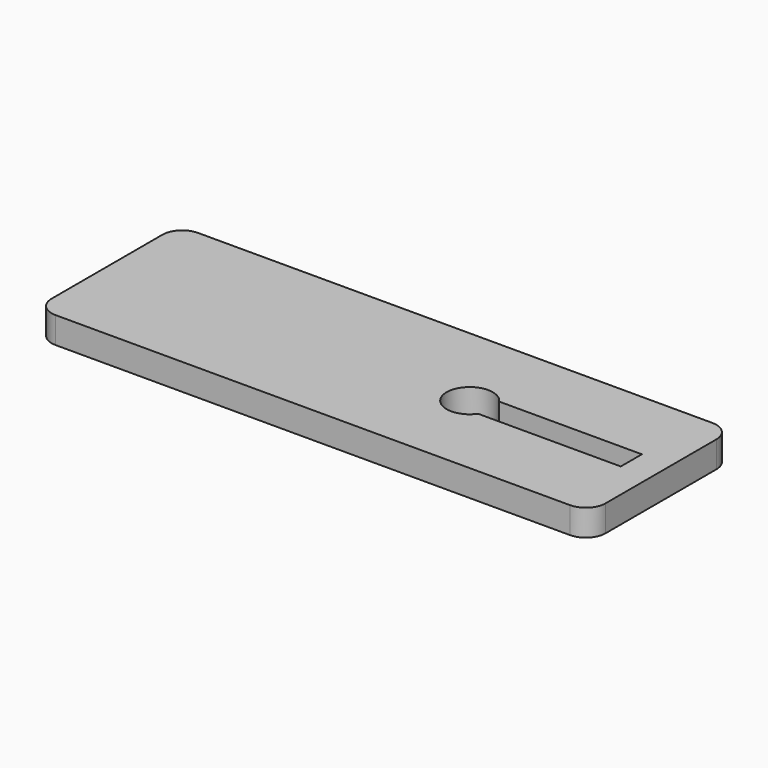
from build123d import *

# Parameters (mm, degrees)
F0_W     = 1066.8
F0_H     = 342.9
F1_DEPTH = 50.8
F2_R     = 38.1
F4_DEPTH = 50.8


with BuildPart() as f1:
    # F0 (on Top) → F1 (new body)
    with BuildSketch(Plane.XY):
        Rectangle(F0_W, F0_H)
    extrude(amount=F1_DEPTH)

    # F2
    f2_edges = [f1.edges().sort_by_distance(p)[0] for p in [
        (-533.4, 171.45, 25.4),
        (-533.4, -171.45, 25.4),
        (533.4, 171.45, 25.4),
        (533.4, -171.45, 25.4),
    ]]
    fillet(f2_edges, radius=F2_R)

    # F3 (on face) → F4 (cut)
    with BuildSketch(Plane.XY.offset(50.8)):
        with BuildLine():
            ThreePointArc((201.577973, -25.4), (207.51019, -13.310834), (209.55, 0))
            ThreePointArc((209.55, 0), (207.51019, 13.310834), (201.577973, 25.4))
            ThreePointArc((201.577973, 25.4), (120.65, 0), (201.577973, -25.4))
        make_face()
        with BuildLine():
            ThreePointArc((201.577973, 25.4), (207.51019, 13.310834), (209.55, 0))
            ThreePointArc((209.55, 0), (207.51019, -13.310834), (201.577973, -25.4))
            Line((201.577973, -25.4), (476.25, -25.4))
            Line((476.25, -25.4), (476.25, 25.4))
            Line((476.25, 25.4), (201.577973, 25.4))
        make_face()
    extrude(amount=-F4_DEPTH, mode=Mode.SUBTRACT)


solid = f1.part
